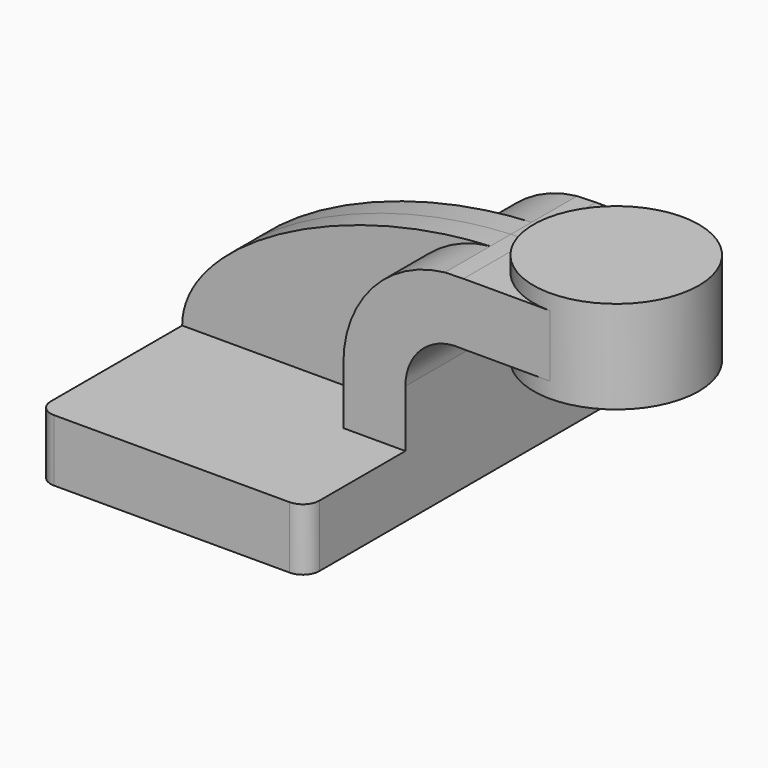
from build123d import *

# Parameters (mm, degrees)
F1_DEPTH = 63.5
F2_DEPTH = 25.4
F3_DEPTH = 7.9375
F5_R     = 5.08


with BuildPart() as f1:
    # F0 (on Front) → F1 (new body, symmetric)
    with BuildSketch(Plane.XZ):
        Polygon((22.225, 9.525), (-41.275, 9.525), (-41.275, -9.525), (41.275, -9.525), (41.275, 9.525), align=None)
    extrude(amount=F1_DEPTH, both=True)

    # F0 (on Front) → F2 (join, symmetric)
    with BuildSketch(Plane.XZ):
        Polygon((83.458367, 61.9252), (60.325, 61.9252), (60.325, 42.8752), (83.458367, 42.8752), (85.725, 42.8752), (85.725, 61.9252), align=None)
        with BuildLine():
            Line((22.225, 27.055343), (22.225, 9.525))
            Line((22.225, 9.525), (41.275, 9.525))
            Line((41.275, 9.525), (41.275, 27.055343))
            ThreePointArc((41.275, 27.055343), (46.402245, 38.738724), (58.472026, 42.8752))
            Line((58.472026, 42.8752), (60.325, 42.8752))
            Line((60.325, 42.8752), (60.325, 61.9252))
            Line((60.325, 61.9252), (59.111812, 61.9252))
            add(Edge.make_bspline(
                [(53.39808, 61.778228), (55.302948, 61.866382), (57.208525, 61.91594), (59.111812, 61.9252)],
                knots=[108.876649, 108.876649, 108.876649, 108.876649, 113.239979, 113.239979, 113.239979, 113.239979], degree=3))
            ThreePointArc((53.39808, 61.778228), (31.161623, 50.386865), (22.225, 27.055343))
        make_face()
    extrude(amount=F2_DEPTH, both=True)

    # F0 (on Front) → F3 (join, symmetric)
    with BuildSketch(Plane.XZ):
        with BuildLine():
            add(Edge.make_bspline(
                [(-41.275, 9.525), (-41.223468, 33.347389), (5.866576, 59.578541), (53.39808, 61.778228)],
                knots=[0, 0, 0, 0, 108.876649, 108.876649, 108.876649, 108.876649], degree=3))
            Line((-41.275, 9.525), (22.225, 9.525))
            Line((22.225, 9.525), (22.225, 27.055343))
            ThreePointArc((22.225, 27.055343), (31.161623, 50.386865), (53.39808, 61.778228))
        make_face()
    extrude(amount=F3_DEPTH, both=True)

    # F0 (on Front) → F4 (revolve)
    with BuildSketch(Plane.XZ):
        Polygon((111.125, 66.675), (85.725, 66.675), (85.725, 61.9252), (85.725, 42.8752), (85.725, 38.1), (111.125, 38.1), align=None)
    revolve(axis=Axis((85.725, 0, 52.3875), (0, 0, -1)))

    # F5
    f5_edges = [f1.edges().sort_by_distance(p)[0] for p in [
        (41.275, -63.5, 0),
        (-41.275, -63.5, 0),
        (-41.275, 63.5, 0),
        (41.275, 63.5, 0),
    ]]
    fillet(f5_edges, radius=F5_R)


solid = f1.part
